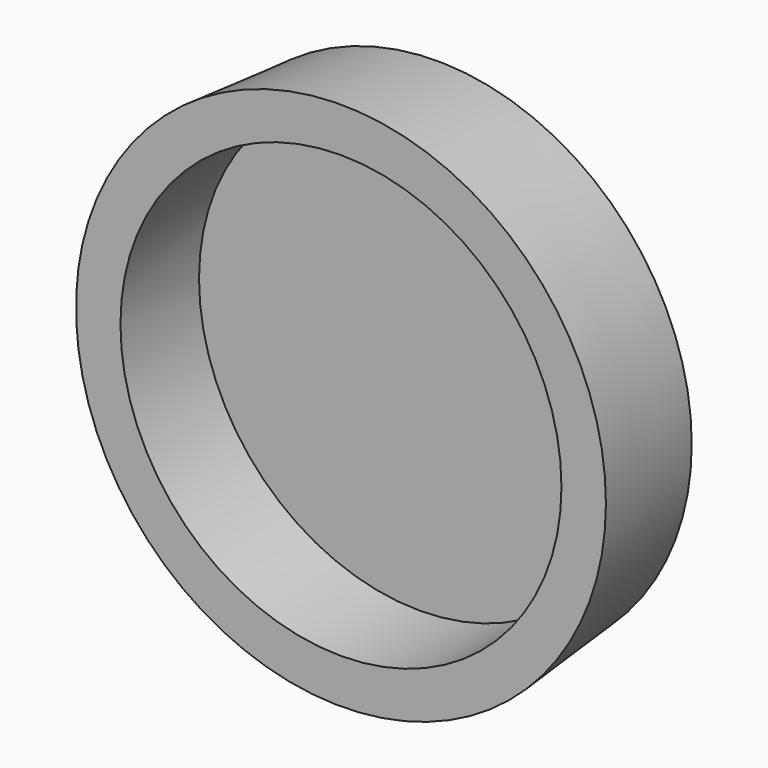
from build123d import *

# Parameters (mm, degrees)
F0_R     = 34.8742
F1_DEPTH = 16.51
F1_TAPER = -5
F2_R     = 30.226
F3_DEPTH = 13.462


with BuildPart() as f1:
    # F0 (on Front) → F1 (new body)
    with BuildSketch(Plane.XZ):
        Circle(F0_R)
    extrude(amount=F1_DEPTH, taper=F1_TAPER)

    # F2 (on face) → F3 (cut)
    with BuildSketch(Plane.XZ.offset(16.51)):
        Circle(F2_R)
    extrude(amount=-F3_DEPTH, mode=Mode.SUBTRACT)


solid = f1.part
